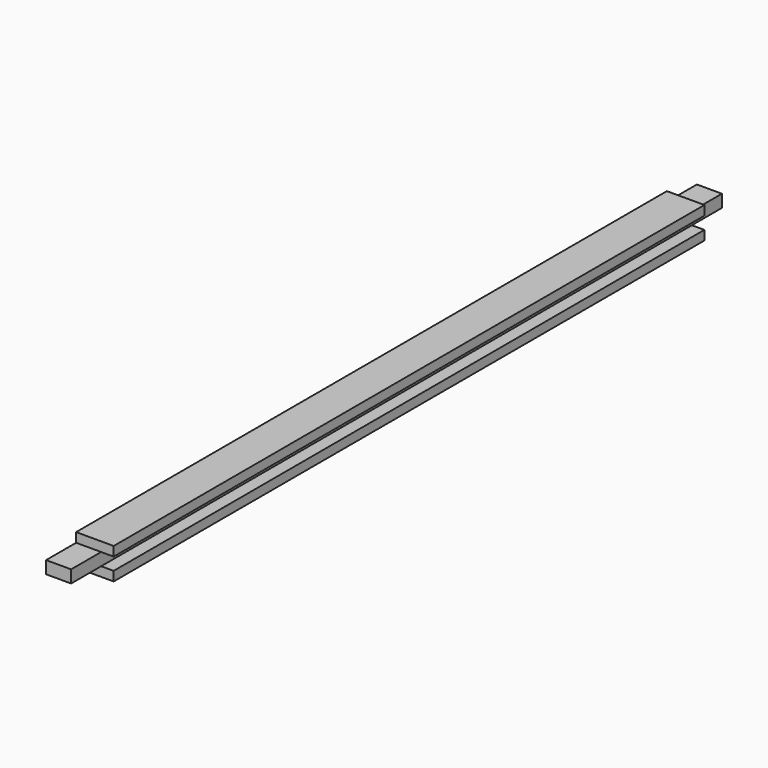
from build123d import *

# Parameters (mm, degrees)
F1_DEPTH      = 206.375
F2_W          = 19.05
F2_H          = 4.7625
F3_DEPTH      = 9.526
F3_DEPTH_BACK = 9.526


with BuildPart() as f1:
    # F0 (on Front) → F1 (new body, symmetric)
    with BuildSketch(Plane.XZ):
        Polygon((9.525, 7.9375), (-9.525, 7.9375), (-9.525, -7.9375), (9.525, -7.9375), (9.525, -3.175), (3.175, -3.175), (3.175, 3.175), (9.525, 3.175), align=None)
    extrude(amount=F1_DEPTH, both=True)

    # F2 (on Right) → F3 (cut, two sides)
    with BuildSketch(Plane.YZ) as f3_sk:
        with Locations((-196.85, 5.55625)):
            Rectangle(F2_W, F2_H)
        with Locations((-196.85, -5.55625)):
            Rectangle(F2_W, F2_H)
        with Locations((196.85, 5.55625)):
            Rectangle(F2_W, F2_H)
        with Locations((196.85, -5.55625)):
            Rectangle(F2_W, F2_H)
    extrude(amount=-F3_DEPTH, mode=Mode.SUBTRACT)
    extrude(f3_sk.sketch, amount=F3_DEPTH_BACK, mode=Mode.SUBTRACT)


solid = f1.part
